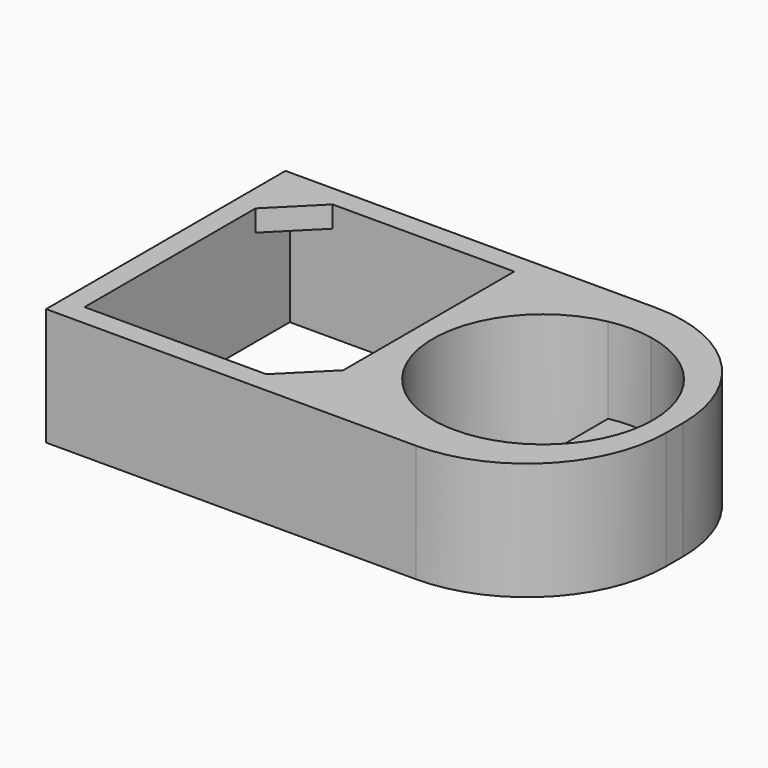
from build123d import *

# Parameters (mm, degrees)
F0_W     = 23.8
F0_H     = 14
F0_W_2   = 10.5
F0_H_2   = 12
F1_DEPTH = 5.5
F2_DEPTH = 1.5
F4_DEPTH = 1
F5_R     = 6.5


with BuildPart() as f1:
    # F0 (on Top) → F1 (new body)
    with BuildSketch(Plane.XY):
        with Locations((-0.285932, 2.603267)):
            Rectangle(F0_W, F0_H)
        with Locations((-5.935932, 2.603267)):
            Rectangle(F0_W_2, F0_H_2, mode=Mode.SUBTRACT)
        with BuildLine():
            ThreePointArc((4.464068, 7.655247), (5.464068, 7.753267), (6.464068, 7.655247))
            ThreePointArc((6.464068, 7.655247), (9.443546, 5.87225), (10.614068, 2.603267))
            ThreePointArc((10.614068, 2.603267), (9.443546, -0.665716), (6.464068, -2.448713))
            ThreePointArc((6.464068, -2.448713), (5.464068, -2.546733), (4.464068, -2.448713))
            ThreePointArc((4.464068, -2.448713), (0.314068, 2.603267), (4.464068, 7.655247))
        make_face(mode=Mode.SUBTRACT)
    extrude(amount=F1_DEPTH)

    # F0 (on Top) → F2 (join)
    with BuildSketch(Plane.XY):
        with BuildLine():
            Line((4.464068, 4.655247), (6.464068, 4.655247))
            Line((6.464068, 4.655247), (6.464068, 7.655247))
            ThreePointArc((6.464068, 7.655247), (5.464068, 7.753267), (4.464068, 7.655247))
            Line((4.464068, 7.655247), (4.464068, 4.655247))
        make_face()
        with BuildLine():
            ThreePointArc((4.464068, -2.448713), (5.464068, -2.546733), (6.464068, -2.448713))
            Line((6.464068, -2.448713), (6.464068, 0.551287))
            Line((6.464068, 0.551287), (4.464068, 0.551287))
            Line((4.464068, 0.551287), (4.464068, -2.448713))
        make_face()
    extrude(amount=F2_DEPTH)

    # F3 (on face) → F4 (join)
    with BuildSketch(Plane.XY.offset(5.5)):
        Polygon((-9.185932, 8.603267), (-11.185932, 8.603267), (-11.185932, 6.603267), align=None)
        Polygon((-0.685932, -3.396733), (-0.685932, -1.396733), (-2.685932, -3.396733), align=None)
    extrude(amount=-F4_DEPTH)

    # F5
    f5_edges = [f1.edges().sort_by_distance(p)[0] for p in [
        (11.614068, 9.603267, 2.75),
        (11.614068, -4.396733, 2.75),
    ]]
    fillet(f5_edges, radius=F5_R)


solid = f1.part
